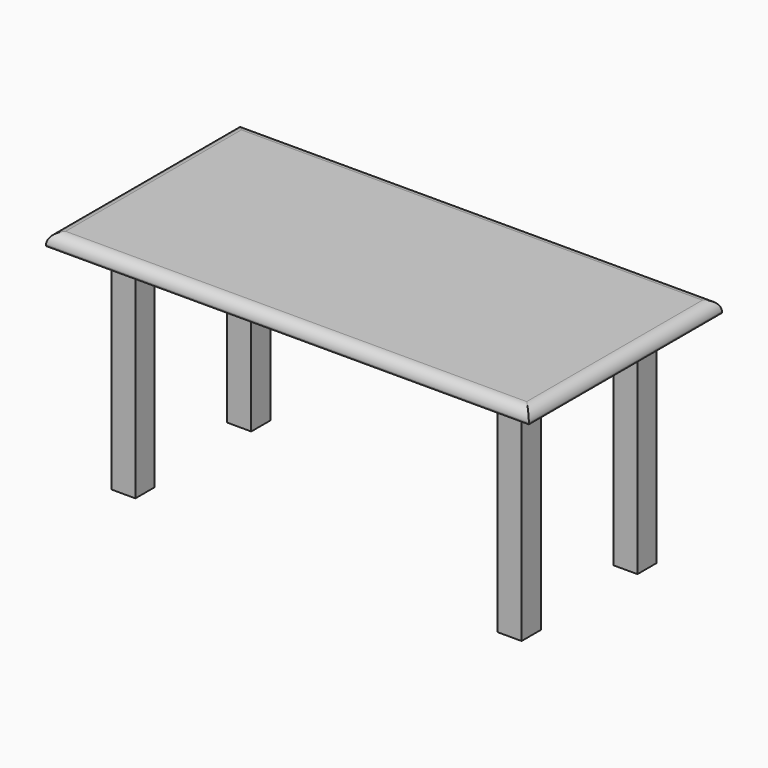
from build123d import *

# Parameters (mm, degrees)
SKETCH186_W  = 2000
SKETCH186_H  = 1000
PAD_DEPTH    = 50
SKETCH187_W  = 100
SKETCH187_H  = 100
PAD001_DEPTH = 900
SKETCH188_W  = 100
SKETCH188_H  = 100
PAD002_DEPTH = 900
SKETCH189_W  = 100
SKETCH189_H  = 100
PAD003_DEPTH = 900
SKETCH190_W  = 100
SKETCH190_H  = 100
PAD004_DEPTH = 900
FILLET_R     = 45


with BuildPart() as part:
    # Sketch186 → Pad (new body)
    with BuildSketch(Plane.XY):
        with Locations((1000, 500)):
            Rectangle(SKETCH186_W, SKETCH186_H)
    extrude(amount=PAD_DEPTH)

    # Sketch187 (on Face5 of Pad) → Pad001 (join)
    with BuildSketch(Plane(origin=(0, 0, 0), x_dir=(1, 0, 0), z_dir=(0, 0, -1))):
        with Locations((200, -200)):
            Rectangle(SKETCH187_W, SKETCH187_H)
    extrude(amount=PAD001_DEPTH)

    # Sketch188 (on Face4 of Pad001) → Pad002 (join)
    with BuildSketch(Plane(origin=(0, 0, 0), x_dir=(1, 0, 0), z_dir=(0, 0, -1))):
        with Locations((1800, -200)):
            Rectangle(SKETCH188_W, SKETCH188_H)
    extrude(amount=PAD002_DEPTH)

    # Sketch189 (on Face4 of Pad002) → Pad003 (join)
    with BuildSketch(Plane(origin=(0, 0, 0), x_dir=(1, 0, 0), z_dir=(0, 0, -1))):
        with Locations((200, -800)):
            Rectangle(SKETCH189_W, SKETCH189_H)
    extrude(amount=PAD003_DEPTH)

    # Sketch190 (on Face4 of Pad003) → Pad004 (join)
    with BuildSketch(Plane(origin=(0, 0, 0), x_dir=(1, 0, 0), z_dir=(0, 0, -1))):
        with Locations((1800, -800)):
            Rectangle(SKETCH190_W, SKETCH190_H)
    extrude(amount=PAD004_DEPTH)

    # Fillet
    fillet_edges = [part.edges().sort_by_distance(p)[0] for p in [
        (1000, 0, 50),
        (2000, 500, 50),
        (1000, 1000, 50),
        (0, 500, 50),
    ]]
    fillet(fillet_edges, radius=FILLET_R)


with BuildPart() as part_1:
    # Body placement: moved
    add(part.part.moved(Location((1750, 2410, 880))))


solid = part_1.part
